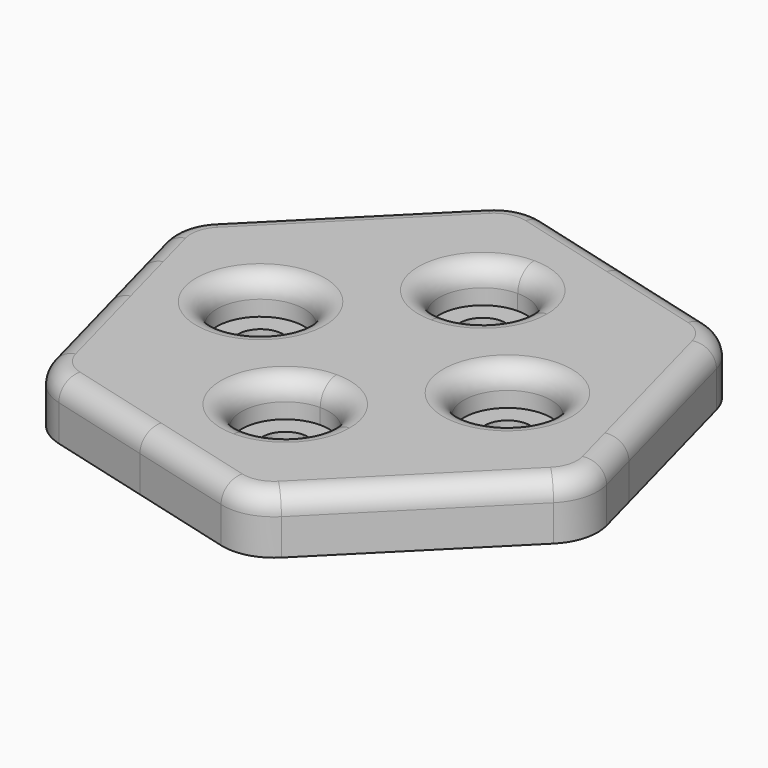
from build123d import *

# Parameters (mm, degrees)
F1_DEPTH = 1
F2_DEPTH = 2.75
F3_R     = 2.5
F4_R     = 1


with BuildPart() as f1:
    # F0 (on Top) → F1 (new body)
    with BuildSketch(Plane.XY):
        with BuildLine():
            Line((8.125, 0), (11.5, 0))
            ThreePointArc((11.5, 0), (11.4016159132, 1.5010511546), (11.1081470315, 2.9764189098))
            ThreePointArc((11.1081470315, 2.9764189098), (8.1317280214, 8.1317279459), (2.9764190129, 11.1081470039))
            ThreePointArc((2.9764190129, 11.1081470039), (1.5010512076, 11.4016159062), (0, 11.5))
            Line((0, 11.5), (0, 8.125))
            ThreePointArc((0, 8.125), (1.50260191, 7.50260191), (2.125, 6))
            ThreePointArc((2.125, 6), (1.50260191, 4.49739809), (0, 3.875))
            Line((0, 3.875), (0, 2.5))
            ThreePointArc((0, 2.5), (1.767766953, 1.767766953), (2.5, 0))
            Line((2.5, 0), (3.875, 0))
            ThreePointArc((3.875, 0), (6, 2.125), (8.125, 0))
        make_face()
        with BuildLine():
            Line((11.9056760747, 0), (11.5, 0))
            ThreePointArc((11.5, 0), (10.6246146329, -4.4008594505), (8.1317280169, -8.1317279504))
            Line((8.1317280169, -8.1317279504), (12.826583324, -3.4368726433))
            Line((12.826583324, -3.4368726433), (11.9056760747, 0))
        make_face()
        with BuildLine():
            ThreePointArc((8.1317280169, -8.1317279504), (10.6246146329, -4.4008594505), (11.5, 0))
            Line((11.5, 0), (8.125, 0))
            ThreePointArc((8.125, 0), (6, -2.125), (3.875, 0))
            Line((3.875, 0), (2.5, 0))
            ThreePointArc((2.5, 0), (1.767766953, -1.767766953), (0, -2.5))
            Line((0, -2.5), (0, -3.875))
            ThreePointArc((0, -3.875), (1.50260191, -4.49739809), (2.125, -6))
            ThreePointArc((2.125, -6), (1.50260191, -7.50260191), (0, -8.125))
            Line((0, -8.125), (0, -11.5))
            ThreePointArc((0, -11.5), (4.4008594939, -10.6246146149), (8.1317280169, -8.1317279504))
        make_face()
        with BuildLine():
            ThreePointArc((11.1081470315, 2.9764189098), (11.4016159132, 1.5010511546), (11.5, 0))
            Line((11.5, 0), (11.9056760747, 0))
            Line((11.9056760747, 0), (11.1081470315, 2.9764189098))
        make_face()
        with BuildLine():
            ThreePointArc((2.9764190129, 11.1081470039), (8.1317280214, 8.1317279459), (11.1081470315, 2.9764189098))
            Line((11.1081470315, 2.9764189098), (9.3897106807, 9.3897106807))
            Line((9.3897106807, 9.3897106807), (2.9764190129, 11.1081470039))
        make_face()
        with BuildLine():
            Line((3.4368726433, -12.826583324), (8.1317280169, -8.1317279504))
            ThreePointArc((8.1317280169, -8.1317279504), (4.4008594939, -10.6246146149), (0, -11.5))
            ThreePointArc((0, -11.5), (-1.5010512561, -11.4016158998), (-2.9764191076, -11.1081469785))
            Line((-2.9764191076, -11.1081469785), (3.4368726433, -12.826583324))
        make_face()
        with BuildLine():
            ThreePointArc((0, 11.5), (1.5010512076, 11.4016159062), (2.9764190129, 11.1081470039))
            Line((2.9764190129, 11.1081470039), (-3.4368726433, 12.826583324))
            Line((-3.4368726433, 12.826583324), (-8.1317279863, 8.131727981))
            ThreePointArc((-8.1317279863, 8.131727981), (-4.4008594739, 10.6246146232), (0, 11.5))
        make_face()
        with BuildLine():
            ThreePointArc((-2.9764191076, -11.1081469785), (-1.5010512561, -11.4016158998), (0, -11.5))
            Line((0, -11.5), (0, -8.125))
            ThreePointArc((0, -8.125), (-2.125, -6), (0, -3.875))
            Line((0, -3.875), (0, -2.5))
            ThreePointArc((0, -2.5), (-1.767766953, -1.767766953), (-2.5, 0))
            Line((-2.5, 0), (-3.875, 0))
            ThreePointArc((-3.875, 0), (-6, -2.125), (-8.125, 0))
            Line((-8.125, 0), (-11.5, 0))
            ThreePointArc((-11.5, 0), (-11.4016159126, -1.5010511592), (-11.1081470291, -2.9764189186))
            ThreePointArc((-11.1081470291, -2.9764189186), (-8.1317280528, -8.1317279145), (-2.9764191076, -11.1081469785))
        make_face()
        with BuildLine():
            Line((0, 8.125), (0, 11.5))
            ThreePointArc((0, 11.5), (-4.4008594739, 10.6246146232), (-8.1317279863, 8.131727981))
            Line((-8.1317279836, 8.1317279836), (-1.767766953, 1.767766953))
            ThreePointArc((-1.767766953, 1.767766953), (-0.9567085809, 2.3096988313), (0, 2.5))
            Line((0, 2.5), (0, 3.875))
            ThreePointArc((0, 3.875), (-2.125, 6), (0, 8.125))
        make_face()
        with BuildLine():
            Line((-9.3897106807, -9.3897106807), (-2.9764191076, -11.1081469785))
            ThreePointArc((-2.9764191076, -11.1081469785), (-8.1317280528, -8.1317279145), (-11.1081470291, -2.9764189186))
            Line((-11.1081470291, -2.9764189186), (-9.3897106807, -9.3897106807))
        make_face()
        with BuildLine():
            Line((-1.767766953, 1.767766953), (-8.1317279836, 8.1317279836))
            ThreePointArc((-8.1317279863, 8.131727981), (-10.6246146246, 4.4008594705), (-11.5, 0))
            Line((-11.5, 0), (-8.125, 0))
            ThreePointArc((-8.125, 0), (-6, 2.125), (-3.875, 0))
            Line((-3.875, 0), (-2.5, 0))
            ThreePointArc((-2.5, 0), (-2.3096988313, 0.9567085809), (-1.767766953, 1.767766953))
        make_face()
        with BuildLine():
            ThreePointArc((-11.5, 0), (-10.6246146246, 4.4008594705), (-8.1317279863, 8.131727981))
            Line((-8.1317279863, 8.131727981), (-12.826583324, 3.4368726433))
            Line((-12.826583324, 3.4368726433), (-11.9056760747, 0))
            Line((-11.9056760747, 0), (-11.5, 0))
        make_face()
        with BuildLine():
            Line((-11.9056760747, 0), (-11.1081470291, -2.9764189186))
            ThreePointArc((-11.1081470291, -2.9764189186), (-11.4016159126, -1.5010511592), (-11.5, 0))
            Line((-11.5, 0), (-11.9056760747, 0))
        make_face()
        with BuildLine():
            ThreePointArc((-3.875, 0), (-6, 2.125), (-8.125, 0))
            Line((-8.125, 0), (-7.1, 0))
            ThreePointArc((-7.1, 0), (-6, 1.1), (-4.9, 0))
            Line((-4.9, 0), (-3.875, 0))
        make_face()
        with BuildLine():
            Line((-7.1, 0), (-8.125, 0))
            ThreePointArc((-8.125, 0), (-6, -2.125), (-3.875, 0))
            Line((-3.875, 0), (-4.9, 0))
            ThreePointArc((-4.9, 0), (-6, -1.1), (-7.1, 0))
        make_face()
        with BuildLine():
            Line((0, 7.1), (0, 8.125))
            ThreePointArc((0, 8.125), (-2.125, 6), (0, 3.875))
            Line((0, 3.875), (0, 4.9))
            ThreePointArc((0, 4.9), (-1.1, 6), (0, 7.1))
        make_face()
        with BuildLine():
            ThreePointArc((2.125, 6), (1.50260191, 7.50260191), (0, 8.125))
            Line((0, 8.125), (0, 7.1))
            ThreePointArc((0, 7.1), (0.7778174593, 6.7778174593), (1.1, 6))
            ThreePointArc((1.1, 6), (0.7778174593, 5.2221825407), (0, 4.9))
            Line((0, 4.9), (0, 3.875))
            ThreePointArc((0, 3.875), (1.50260191, 4.49739809), (2.125, 6))
        make_face()
        with BuildLine():
            Line((7.1, 0), (8.125, 0))
            ThreePointArc((8.125, 0), (6, 2.125), (3.875, 0))
            Line((3.875, 0), (4.9, 0))
            ThreePointArc((4.9, 0), (6, 1.1), (7.1, 0))
        make_face()
        with BuildLine():
            ThreePointArc((3.875, 0), (6, -2.125), (8.125, 0))
            Line((8.125, 0), (7.1, 0))
            ThreePointArc((7.1, 0), (6, -1.1), (4.9, 0))
            Line((4.9, 0), (3.875, 0))
        make_face()
        with BuildLine():
            Line((0, -7.1), (0, -8.125))
            ThreePointArc((0, -8.125), (1.50260191, -7.50260191), (2.125, -6))
            ThreePointArc((2.125, -6), (1.50260191, -4.49739809), (0, -3.875))
            Line((0, -3.875), (0, -4.9))
            ThreePointArc((0, -4.9), (0.7778174593, -5.2221825407), (1.1, -6))
            ThreePointArc((1.1, -6), (0.7778174593, -6.7778174593), (0, -7.1))
        make_face()
        with BuildLine():
            ThreePointArc((0, -3.875), (-2.125, -6), (0, -8.125))
            Line((0, -8.125), (0, -7.1))
            ThreePointArc((0, -7.1), (-1.1, -6), (0, -4.9))
            Line((0, -4.9), (0, -3.875))
        make_face()
        with BuildLine():
            Line((0, -2.5), (0, 0))
            Line((0, 0), (-2.5, 0))
            ThreePointArc((-2.5, 0), (-1.767766953, -1.767766953), (0, -2.5))
        make_face()
        with BuildLine():
            Line((-2.5, 0), (0, 0))
            Line((0, 0), (-1.767766953, 1.767766953))
            ThreePointArc((-1.767766953, 1.767766953), (-2.3096988313, 0.9567085809), (-2.5, 0))
        make_face()
        with BuildLine():
            Line((-1.767766953, 1.767766953), (0, 0))
            Line((0, 0), (0, 2.5))
            ThreePointArc((0, 2.5), (-0.9567085809, 2.3096988313), (-1.767766953, 1.767766953))
        make_face()
        with BuildLine():
            Line((0, 0), (2.5, 0))
            ThreePointArc((2.5, 0), (1.767766953, 1.767766953), (0, 2.5))
            Line((0, 2.5), (0, 0))
        make_face()
        with BuildLine():
            ThreePointArc((0, -2.5), (1.767766953, -1.767766953), (2.5, 0))
            Line((2.5, 0), (0, 0))
            Line((0, 0), (0, -2.5))
        make_face()
    extrude(amount=F1_DEPTH)

    # F0 (on Top) → F2 (join)
    with BuildSketch(Plane.XY):
        with BuildLine():
            Line((8.125, 0), (11.5, 0))
            ThreePointArc((11.5, 0), (11.4016159132, 1.5010511546), (11.1081470315, 2.9764189098))
            ThreePointArc((11.1081470315, 2.9764189098), (8.1317280214, 8.1317279459), (2.9764190129, 11.1081470039))
            ThreePointArc((2.9764190129, 11.1081470039), (1.5010512076, 11.4016159062), (0, 11.5))
            Line((0, 11.5), (0, 8.125))
            ThreePointArc((0, 8.125), (1.50260191, 7.50260191), (2.125, 6))
            ThreePointArc((2.125, 6), (1.50260191, 4.49739809), (0, 3.875))
            Line((0, 3.875), (0, 2.5))
            ThreePointArc((0, 2.5), (1.767766953, 1.767766953), (2.5, 0))
            Line((2.5, 0), (3.875, 0))
            ThreePointArc((3.875, 0), (6, 2.125), (8.125, 0))
        make_face()
        with BuildLine():
            Line((11.9056760747, 0), (11.5, 0))
            ThreePointArc((11.5, 0), (10.6246146329, -4.4008594505), (8.1317280169, -8.1317279504))
            Line((8.1317280169, -8.1317279504), (12.826583324, -3.4368726433))
            Line((12.826583324, -3.4368726433), (11.9056760747, 0))
        make_face()
        with BuildLine():
            ThreePointArc((8.1317280169, -8.1317279504), (10.6246146329, -4.4008594505), (11.5, 0))
            Line((11.5, 0), (8.125, 0))
            ThreePointArc((8.125, 0), (6, -2.125), (3.875, 0))
            Line((3.875, 0), (2.5, 0))
            ThreePointArc((2.5, 0), (1.767766953, -1.767766953), (0, -2.5))
            Line((0, -2.5), (0, -3.875))
            ThreePointArc((0, -3.875), (1.50260191, -4.49739809), (2.125, -6))
            ThreePointArc((2.125, -6), (1.50260191, -7.50260191), (0, -8.125))
            Line((0, -8.125), (0, -11.5))
            ThreePointArc((0, -11.5), (4.4008594939, -10.6246146149), (8.1317280169, -8.1317279504))
        make_face()
        with BuildLine():
            ThreePointArc((11.1081470315, 2.9764189098), (11.4016159132, 1.5010511546), (11.5, 0))
            Line((11.5, 0), (11.9056760747, 0))
            Line((11.9056760747, 0), (11.1081470315, 2.9764189098))
        make_face()
        with BuildLine():
            ThreePointArc((2.9764190129, 11.1081470039), (8.1317280214, 8.1317279459), (11.1081470315, 2.9764189098))
            Line((11.1081470315, 2.9764189098), (9.3897106807, 9.3897106807))
            Line((9.3897106807, 9.3897106807), (2.9764190129, 11.1081470039))
        make_face()
        with BuildLine():
            Line((3.4368726433, -12.826583324), (8.1317280169, -8.1317279504))
            ThreePointArc((8.1317280169, -8.1317279504), (4.4008594939, -10.6246146149), (0, -11.5))
            ThreePointArc((0, -11.5), (-1.5010512561, -11.4016158998), (-2.9764191076, -11.1081469785))
            Line((-2.9764191076, -11.1081469785), (3.4368726433, -12.826583324))
        make_face()
        with BuildLine():
            ThreePointArc((0, 11.5), (1.5010512076, 11.4016159062), (2.9764190129, 11.1081470039))
            Line((2.9764190129, 11.1081470039), (-3.4368726433, 12.826583324))
            Line((-3.4368726433, 12.826583324), (-8.1317279863, 8.131727981))
            ThreePointArc((-8.1317279863, 8.131727981), (-4.4008594739, 10.6246146232), (0, 11.5))
        make_face()
        with BuildLine():
            ThreePointArc((-2.9764191076, -11.1081469785), (-1.5010512561, -11.4016158998), (0, -11.5))
            Line((0, -11.5), (0, -8.125))
            ThreePointArc((0, -8.125), (-2.125, -6), (0, -3.875))
            Line((0, -3.875), (0, -2.5))
            ThreePointArc((0, -2.5), (-1.767766953, -1.767766953), (-2.5, 0))
            Line((-2.5, 0), (-3.875, 0))
            ThreePointArc((-3.875, 0), (-6, -2.125), (-8.125, 0))
            Line((-8.125, 0), (-11.5, 0))
            ThreePointArc((-11.5, 0), (-11.4016159126, -1.5010511592), (-11.1081470291, -2.9764189186))
            ThreePointArc((-11.1081470291, -2.9764189186), (-8.1317280528, -8.1317279145), (-2.9764191076, -11.1081469785))
        make_face()
        with BuildLine():
            Line((0, 8.125), (0, 11.5))
            ThreePointArc((0, 11.5), (-4.4008594739, 10.6246146232), (-8.1317279863, 8.131727981))
            Line((-8.1317279836, 8.1317279836), (-1.767766953, 1.767766953))
            ThreePointArc((-1.767766953, 1.767766953), (-0.9567085809, 2.3096988313), (0, 2.5))
            Line((0, 2.5), (0, 3.875))
            ThreePointArc((0, 3.875), (-2.125, 6), (0, 8.125))
        make_face()
        with BuildLine():
            Line((-9.3897106807, -9.3897106807), (-2.9764191076, -11.1081469785))
            ThreePointArc((-2.9764191076, -11.1081469785), (-8.1317280528, -8.1317279145), (-11.1081470291, -2.9764189186))
            Line((-11.1081470291, -2.9764189186), (-9.3897106807, -9.3897106807))
        make_face()
        with BuildLine():
            Line((-1.767766953, 1.767766953), (-8.1317279836, 8.1317279836))
            ThreePointArc((-8.1317279863, 8.131727981), (-10.6246146246, 4.4008594705), (-11.5, 0))
            Line((-11.5, 0), (-8.125, 0))
            ThreePointArc((-8.125, 0), (-6, 2.125), (-3.875, 0))
            Line((-3.875, 0), (-2.5, 0))
            ThreePointArc((-2.5, 0), (-2.3096988313, 0.9567085809), (-1.767766953, 1.767766953))
        make_face()
        with BuildLine():
            ThreePointArc((-11.5, 0), (-10.6246146246, 4.4008594705), (-8.1317279863, 8.131727981))
            Line((-8.1317279863, 8.131727981), (-12.826583324, 3.4368726433))
            Line((-12.826583324, 3.4368726433), (-11.9056760747, 0))
            Line((-11.9056760747, 0), (-11.5, 0))
        make_face()
        with BuildLine():
            Line((-11.9056760747, 0), (-11.1081470291, -2.9764189186))
            ThreePointArc((-11.1081470291, -2.9764189186), (-11.4016159126, -1.5010511592), (-11.5, 0))
            Line((-11.5, 0), (-11.9056760747, 0))
        make_face()
        with BuildLine():
            Line((-1.767766953, 1.767766953), (0, 0))
            Line((0, 0), (0, 2.5))
            ThreePointArc((0, 2.5), (-0.9567085809, 2.3096988313), (-1.767766953, 1.767766953))
        make_face()
        with BuildLine():
            Line((-2.5, 0), (0, 0))
            Line((0, 0), (-1.767766953, 1.767766953))
            ThreePointArc((-1.767766953, 1.767766953), (-2.3096988313, 0.9567085809), (-2.5, 0))
        make_face()
        with BuildLine():
            Line((0, -2.5), (0, 0))
            Line((0, 0), (-2.5, 0))
            ThreePointArc((-2.5, 0), (-1.767766953, -1.767766953), (0, -2.5))
        make_face()
        with BuildLine():
            ThreePointArc((0, -2.5), (1.767766953, -1.767766953), (2.5, 0))
            Line((2.5, 0), (0, 0))
            Line((0, 0), (0, -2.5))
        make_face()
        with BuildLine():
            Line((0, 0), (2.5, 0))
            ThreePointArc((2.5, 0), (1.767766953, 1.767766953), (0, 2.5))
            Line((0, 2.5), (0, 0))
        make_face()
    extrude(amount=F2_DEPTH)

    # F3
    f3_edges = [f1.edges().sort_by_distance(p)[0] for p in [
        (-3.436873, 12.826583, 1.375),
        (-12.826583, 3.436873, 1.375),
        (-9.389711, -9.389711, 1.375),
        (3.436873, -12.826583, 1.375),
        (12.826583, -3.436873, 1.375),
        (9.389711, 9.389711, 1.375),
    ]]
    fillet(f3_edges, radius=F3_R)

    # F4
    f4_edges = [f1.edges().sort_by_distance(p)[0] for p in [
        (-2.976419, -11.108147, 2.75),
        (-9.116236, -9.116236, 2.75),
        (3.336774, -12.45301, 2.75),
        (-11.108147, -2.976419, 2.75),
        (8.131728, -8.131728, 2.75),
        (-12.45301, 3.336774, 2.75),
        (12.45301, -3.336774, 2.75),
        (-8.131728, 8.131728, 2.75),
        (11.108147, 2.976419, 2.75),
        (-3.336774, 12.45301, 2.75),
        (9.116236, 9.116236, 2.75),
        (2.976419, 11.108147, 2.75),
        (-3.875, 0, 2.75),
        (0, 8.125, 2.75),
        (0, -3.875, 2.75),
        (3.875, 0, 2.75),
    ]]
    fillet(f4_edges, radius=F4_R)


solid = f1.part
